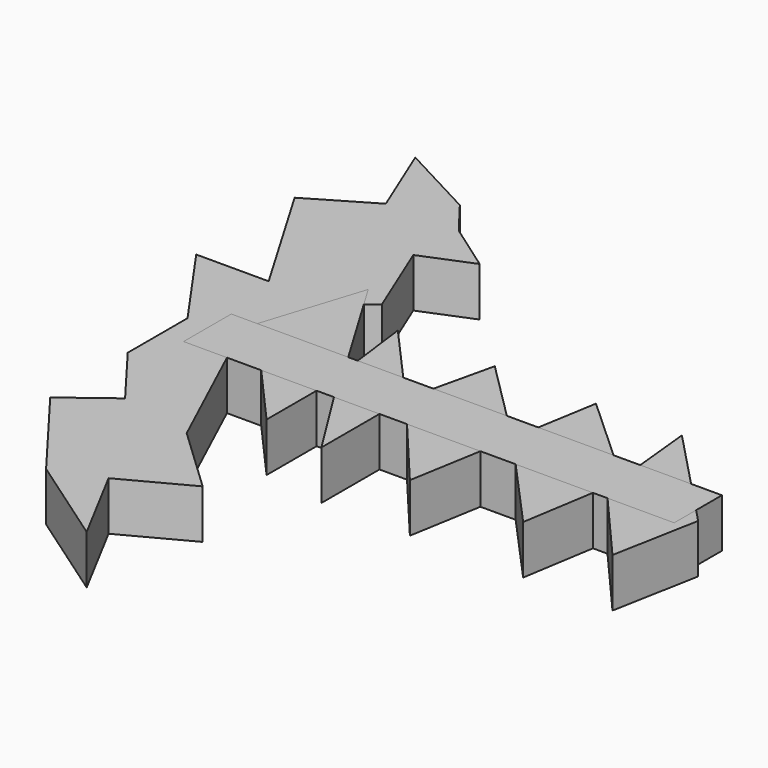
from build123d import *

# Parameters (mm, degrees)
F1_DEPTH = 15.748
F3_DEPTH = 15.748
F4_W     = 158.00403
F4_H     = 19.213128
F5_DEPTH = 15.748


with BuildPart() as f1:
    # F0 (on Top) → F1 (new body)
    with BuildSketch(Plane.XY):
        Polygon((5.496666, -49.005345), (-17.171966, 0), (-10.603819, 27.832607), (0, 36.452203), (-10.603819, 62.330257), (5.496666, 68.927609), (-9.955005, 79.81591), (-18.426025, 90.846337), (-33.438079, 79.81591), (-30.075414, 28.44004), (-53.400997, 28.44004), (-33.438079, 0), (-33.438079, -24.078102), (-18.426025, -43.909597), (-33.438079, -55.273429), (-9.955005, -86.295463), (19.471411, -106.737158), (5.496666, -80.458798), (26.754644, -69.153875), align=None)
        Polygon((-30.075414, 28.44004), (-33.438079, 79.81591), (-53.400997, 68.064377), align=None)
        Polygon((-33.438079, 79.81591), (-18.426025, 90.846337), (-43.398742, 104.124375), align=None)
        Polygon((12.020655, 27.832607), (15.566137, 0), (36.828335, -33.955548), (36.828335, 0), align=None)
        Polygon((43.238979, 27.832607), (36.828335, 0), (65.328278, -33.955548), (71.136542, 0), align=None)
        Polygon((75.832263, 27.832607), (71.136542, 0), (101.81126, -33.955548), (106.303364, -6.002302), (130.573601, -33.955548), (135.798305, -6.002302), (103.48627, 27.832607), (106.303364, 0), align=None)
    extrude(amount=-F1_DEPTH)


with BuildPart() as f3:
    # F2 (on Top) → F3 (new body)
    with BuildSketch(Plane.XY):
        Polygon((16.561132, -30.689333), (16.561132, 0), (-17.994851, 8.354522), align=None)
        Polygon((-17.994851, 8.354522), (16.561132, 0), (-7.744826, 40.615108), align=None)
    extrude(amount=-F3_DEPTH)


with BuildPart() as f5:
    # F4 (on Top) → F5 (new body)
    with BuildSketch(Plane.XY):
        with Locations((52.734472, -0.962363)):
            Rectangle(F4_W, F4_H)
    extrude(amount=-F5_DEPTH)


solid = Compound([f1.part, f3.part, f5.part])
